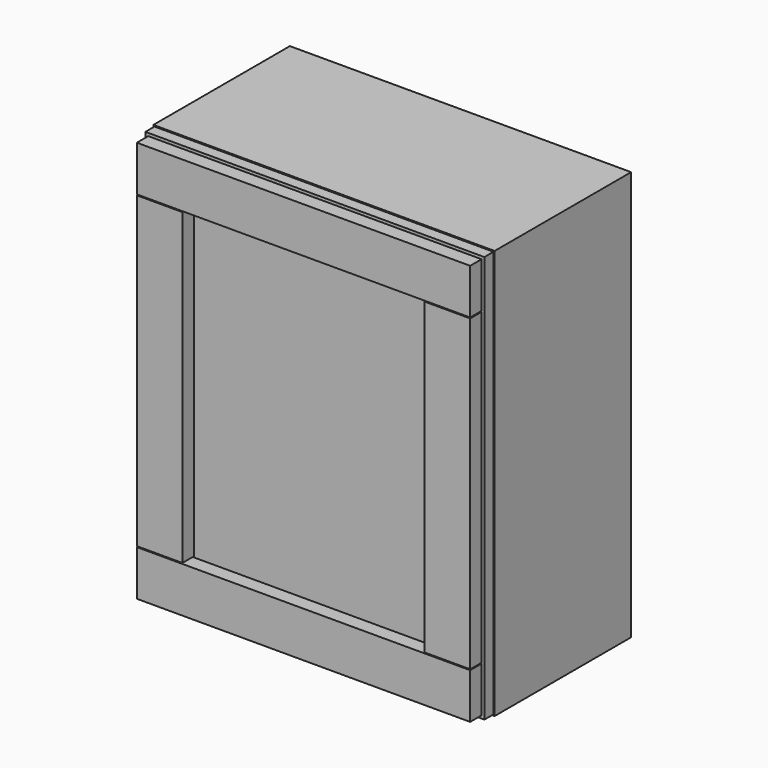
from build123d import *

# Parameters (mm, degrees)
F0_W     = 600
F0_H     = 300
F1_DEPTH = 720
F2_W     = 556
F2_H     = 676
F3_DEPTH = 300
F4_W     = 596
F4_H     = 716
F5_DEPTH = 20
F6_W     = 586
F6_H     = 80
F6_W_2   = 80
F6_H_2   = 543
F7_DEPTH = 25


with BuildPart() as f1:
    # F0 (on Top) → F1 (new body)
    with BuildSketch(Plane.XY):
        Rectangle(F0_W, F0_H)
    extrude(amount=F1_DEPTH)

    # F2 (on face) → F3 (cut, through all)
    with BuildSketch(Plane.XZ.offset(150)):
        with Locations((0, 360)):
            Rectangle(F2_W, F2_H)
    extrude(amount=-F3_DEPTH, mode=Mode.SUBTRACT)

    # F4 (on face) → F5 (join)
    with BuildSketch(Plane.XZ.offset(150)):
        with Locations((0, 360)):
            Rectangle(F4_W, F4_H)
    extrude(amount=F5_DEPTH)

    # F6 (on face) → F7 (join)
    with BuildSketch(Plane.XZ.offset(170)):
        with Locations((0, 673)):
            Rectangle(F6_W, F6_H)
        with Locations((-253, 360)):
            Rectangle(F6_W_2, F6_H_2)
        with Locations((253, 360)):
            Rectangle(F6_W_2, F6_H_2)
        with Locations((0, 47)):
            Rectangle(F6_W, F6_H)
    extrude(amount=F7_DEPTH)


solid = f1.part
